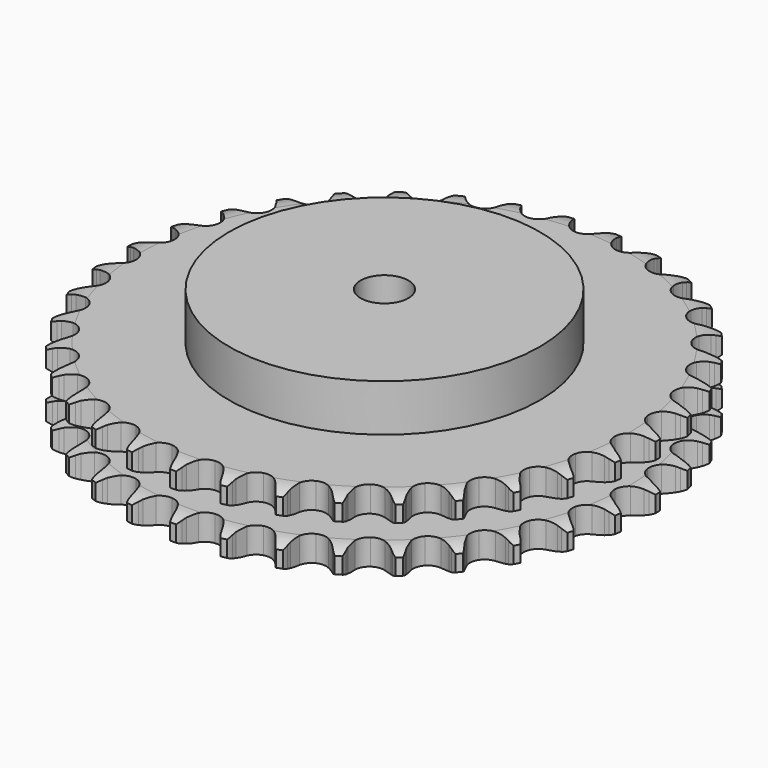
from build123d import *

# Parameters (mm, degrees)
PAD_DEPTH         = 30.3
SKETCH001_R       = 65
PAD001_DEPTH      = 50
SKETCH002_R       = 10
POCKET_DEPTH      = 0.001
POCKET_DEPTH_BACK = 50.001


with BuildPart() as part:
    # Sprocket → Pad (new body)
    with BuildSketch(Plane.XY):
        with BuildLine():
            ThreePointArc((-10.067115, 111.854811), (-8.635283, 110.142644), (-7.627397, 108.151206))
            Line((-7.627397, 108.151206), (-7.038579, 106.560645))
            ThreePointArc((-7.038579, 106.560645), (-6.107139, 104.508656), (-4.892548, 102.610495))
            ThreePointArc((-4.892548, 102.610495), (-2.736878, 100.803962), (0, 100.155911))
            ThreePointArc((0, 100.155911), (2.736878, 100.803962), (4.892548, 102.610495))
            ThreePointArc((4.892548, 102.610495), (6.107139, 104.508656), (7.038579, 106.560645))
            Line((7.038579, 106.560645), (7.627397, 108.151206))
            ThreePointArc((7.627397, 108.151206), (8.635283, 110.142644), (10.067115, 111.854811))
            ThreePointArc((10.067115, 111.854811), (11.170218, 109.914496), (11.806322, 107.775096))
            Line((11.806322, 107.775096), (12.101671, 106.104959))
            ThreePointArc((12.101671, 106.104959), (12.651747, 103.91963), (13.507889, 101.835101))
            ThreePointArc((13.507889, 101.835101), (15.306347, 99.67269), (17.883528, 98.546364))
            ThreePointArc((17.883528, 98.546364), (20.692138, 98.695313), (23.135734, 100.087904))
            Line((23.135734, 100.087904), (25.952604, 103.591385))
            ThreePointArc((25.952604, 103.591385), (26.364631, 104.332939), (26.815965, 105.051248))
            ThreePointArc((26.815965, 105.051248), (28.163239, 106.830717), (29.87778, 108.259706))
            ThreePointArc((29.87778, 108.259706), (30.616699, 106.153605), (30.860576, 103.935006))
            Line((30.860576, 103.935006), (30.852964, 102.238971))
            ThreePointArc((30.852964, 102.238971), (31.003994, 99.990542), (31.474171, 97.786642))
            ThreePointArc((31.474171, 97.786642), (32.857614, 95.337855), (35.192266, 93.769456))
            ThreePointArc((35.192266, 93.769456), (37.982335, 93.414515), (40.635319, 94.348406))
            Line((40.635319, 94.348406), (44.032491, 97.292612))
            ThreePointArc((44.032491, 97.292612), (44.570306, 97.948679), (45.142646, 98.574855))
            ThreePointArc((45.142646, 98.574855), (46.786005, 100.085163), (48.728149, 101.185044))
            ThreePointArc((48.728149, 101.185044), (49.079134, 98.98085), (48.922946, 96.754359))
            Line((48.922946, 96.754359), (48.612618, 95.08694))
            ThreePointArc((48.612618, 95.08694), (48.359748, 92.847676), (48.428847, 90.59524))
            ThreePointArc((48.428847, 90.59524), (49.35281, 87.938783), (51.369894, 85.978721))
            ThreePointArc((51.369894, 85.978721), (54.051749, 85.131297), (56.828851, 85.576472))
            Line((56.828851, 85.576472), (60.697138, 87.866775))
            ThreePointArc((60.697138, 87.866775), (61.343455, 88.416268), (62.018405, 88.930186))
            ThreePointArc((62.018405, 88.930186), (63.905031, 90.12279), (66.012355, 90.858212))
            ThreePointArc((66.012355, 90.858212), (65.964126, 88.62677), (65.412892, 86.463947))
            Line((65.412892, 86.463947), (64.809822, 84.878735))
            ThreePointArc((64.809822, 84.878735), (64.16118, 82.720609), (63.826981, 80.492033))
            ThreePointArc((63.826981, 80.492033), (64.261766, 77.713286), (65.896452, 75.424559))
            ThreePointArc((65.896452, 75.424559), (68.383895, 74.11189), (71.195857, 74.05404))
            Line((71.195857, 74.05404), (75.410928, 75.616827))
            ThreePointArc((75.410928, 75.616827), (76.144975, 76.042086), (76.900842, 76.427228))
            ThreePointArc((76.900842, 76.427228), (78.970096, 77.263795), (81.174869, 77.611122))
            ThreePointArc((81.174869, 77.611122), (80.728976, 75.424152), (79.800414, 73.394513))
            Line((79.800414, 73.394513), (78.923985, 71.942459))
            ThreePointArc((78.923985, 71.942459), (77.900418, 69.934834), (77.173662, 67.801745))
            ThreePointArc((77.173662, 67.801745), (77.105296, 64.99002), (78.305044, 62.446189))
            ThreePointArc((78.305044, 62.446189), (80.518127, 60.710465), (83.274569, 60.15145))
            Line((83.274569, 60.15145), (87.70095, 60.936493))
            ThreePointArc((87.70095, 60.936493), (88.499133, 61.223848), (89.311622, 61.467835))
            ThreePointArc((89.311622, 61.467835), (91.496998, 61.921479), (93.728357, 61.869547))
            ThreePointArc((93.728357, 61.869547), (92.89913, 59.797339), (91.623085, 57.966119))
            Line((91.623085, 57.966119), (90.501466, 56.693892))
            ThreePointArc((90.501466, 56.693892), (89.135873, 54.901296), (88.039919, 52.932254))
            ThreePointArc((88.039919, 52.932254), (87.470598, 50.177922), (88.196848, 47.460748))
            ThreePointArc((88.196848, 47.460748), (90.06444, 45.357756), (92.676769, 44.315543))
            Line((92.676769, 44.315543), (97.17219, 44.297609))
            ThreePointArc((97.17219, 44.297609), (98.008855, 44.437825), (98.851853, 44.532816))
            ThreePointArc((98.851853, 44.532816), (101.08311, 44.588956), (103.269337, 44.139433))
            ThreePointArc((103.269337, 44.139433), (102.08343, 42.248591), (100.500914, 40.674646))
            Line((100.500914, 40.674646), (99.170155, 39.623137))
            ThreePointArc((99.170155, 39.623137), (97.506428, 38.103185), (96.0765, 36.361476))
            ThreePointArc((96.0765, 36.361476), (95.024524, 33.753063), (95.253932, 30.949879))
            ThreePointArc((95.253932, 30.949879), (96.716007, 28.547212), (99.100261, 27.055298))
            Line((99.100261, 27.055298), (103.520237, 26.234963))
            ThreePointArc((103.520237, 26.234963), (104.368493, 26.223534), (105.214905, 26.166475))
            ThreePointArc((105.214905, 26.166475), (107.420329, 25.823307), (109.491157, 24.990642))
            ThreePointArc((109.491157, 24.990642), (107.986685, 23.341939), (106.148562, 22.075857))
            Line((106.148562, 22.075857), (104.651434, 21.278862))
            ThreePointArc((104.651434, 21.278862), (102.743046, 20.080406), (101.025103, 18.622011))
            ThreePointArc((101.025103, 18.622011), (99.524283, 16.243354), (99.249476, 13.444255))
            ThreePointArc((99.249476, 13.444255), (100.259043, 10.819136), (102.338589, 8.925473))
            Line((102.338589, 8.925473), (106.541057, 7.329105))
            ThreePointArc((106.541057, 7.329105), (107.373641, 7.166397), (108.196262, 6.959123))
            ThreePointArc((108.196262, 6.959123), (110.304969, 6.227675), (112.19384, 5.038631))
            ThreePointArc((112.19384, 5.038631), (110.419158, 3.685057), (108.384507, 2.767531))
            Line((108.384507, 2.767531), (106.76913, 2.250667))
            ThreePointArc((106.76913, 2.250667), (104.677418, 1.412226), (102.726677, 0.284019))
            ThreePointArc((102.726677, 0.284019), (100.825249, -1.78843), (100.055061, -4.493478))
            ThreePointArc((100.055061, -4.493478), (100.57967, -7.256675), (102.28767, -9.491224))
            Line((102.28767, -9.491224), (106.137561, -11.812317))
            ThreePointArc((106.137561, -11.812317), (106.927712, -12.121074), (107.700103, -12.471902))
            ThreePointArc((107.700103, -12.471902), (109.644317, -13.568119), (111.290522, -15.075325))
            ThreePointArc((111.290522, -15.075325), (109.302669, -16.090266), (107.136885, -16.629745))
            Line((107.136885, -16.629745), (105.455179, -16.849867))
            ThreePointArc((105.455179, -16.849867), (103.247372, -17.301344), (101.12653, -18.063102))
            ThreePointArc((101.12653, -18.063102), (98.885609, -19.762733), (97.644793, -22.286787))
            ThreePointArc((97.644793, -22.286787), (97.667584, -25.099251), (98.949142, -27.602865))
            Line((98.949142, -27.602865), (102.322716, -30.574082))
            ThreePointArc((102.322716, -30.574082), (103.045038, -31.018963), (103.742374, -31.502069))
            ThreePointArc((103.742374, -31.502069), (105.459607, -32.927823), (106.810234, -34.704749))
            ThreePointArc((106.810234, -34.704749), (104.673103, -35.348434), (102.445796, -35.492528))
            Line((102.445796, -35.492528), (100.751811, -35.408832))
            ThreePointArc((100.751811, -35.408832), (98.49887, -35.458834), (96.276094, -35.82966))
            ThreePointArc((96.276094, -35.82966), (93.767705, -37.101845), (92.096142, -39.36378))
            ThreePointArc((92.096142, -39.36378), (91.616381, -42.135116), (92.430307, -44.827327))
            Line((92.430307, -44.827327), (95.219135, -48.35317))
            ThreePointArc((95.219135, -48.35317), (95.850412, -48.919878), (96.45028, -49.519734))
            ThreePointArc((96.45028, -49.519734), (97.885338, -51.229199), (98.896977, -53.218733))
            ThreePointArc((98.896977, -53.218733), (96.679256, -53.470474), (94.462014, -53.214552))
            Line((94.462014, -53.214552), (92.810197, -52.829728))
            ThreePointArc((92.810197, -52.829728), (90.584533, -52.476648), (88.331265, -52.444623))
            ThreePointArc((88.331265, -52.444623), (85.636029, -53.248473), (83.587445, -55.175589))
            ThreePointArc((83.587445, -55.175589), (82.620553, -57.816724), (82.940685, -60.611002))
            Line((82.940685, -60.611002), (85.055132, -64.578148))
            ThreePointArc((85.055132, -64.578148), (85.575075, -65.248467), (86.058194, -65.945794))
            ThreePointArc((86.058194, -65.945794), (87.164954, -67.884026), (87.80509, -70.022223))
            ThreePointArc((87.80509, -70.022223), (85.578059, -69.873929), (83.442145, -69.226216))
            Line((83.442145, -69.226216), (81.885586, -68.552633))
            ThreePointArc((81.885586, -68.552633), (79.758735, -67.80782), (77.547396, -67.373972))
            ThreePointArc((77.547396, -67.373972), (74.751941, -67.683652), (72.392178, -69.214009))
            ThreePointArc((72.392178, -69.214009), (70.969232, -71.640055), (70.785282, -74.446589))
            Line((70.785282, -74.446589), (72.157388, -78.727531))
            ThreePointArc((72.157388, -78.727531), (72.549285, -79.479917), (72.900127, -80.252302))
            ThreePointArc((72.900127, -80.252302), (73.643016, -82.357006), (73.891076, -84.575141))
            ThreePointArc((73.891076, -84.575141), (71.726313, -84.031579), (69.740378, -83.012893))
            Line((69.740378, -83.012893), (68.329106, -82.0722))
            ThreePointArc((68.329106, -82.0722), (66.369425, -80.959592), (64.27109, -80.137867))
            ThreePointArc((64.27109, -80.137867), (61.465263, -79.943422), (58.870167, -81.027834))
            ThreePointArc((58.870167, -81.027834), (57.036902, -83.160815), (56.354782, -85.889402))
            Line((56.354782, -85.889402), (56.940445, -90.346546))
            ThreePointArc((56.940445, -90.346546), (57.191701, -91.156817), (57.398991, -91.979435))
            ThreePointArc((57.398991, -91.979435), (57.754131, -94.182963), (57.602141, -96.409745))
            ThreePointArc((57.602141, -96.409745), (55.569223, -95.488385), (53.797097, -94.131466))
            Line((53.797097, -94.131466), (52.576472, -92.953899))
            ThreePointArc((52.576472, -92.953899), (50.846948, -91.509257), (48.929059, -90.326065))
            ThreePointArc((48.929059, -90.326065), (46.203042, -89.633745), (43.456021, -90.237358))
            ThreePointArc((43.456021, -90.237358), (41.271358, -92.008719), (40.112992, -94.571659))
            Line((40.112992, -94.571659), (39.89339, -99.061749))
            ThreePointArc((39.89339, -99.061749), (39.995928, -99.903862), (40.053003, -100.750273))
            ThreePointArc((40.053003, -100.750273), (40.008981, -102.981802), (39.461826, -105.14566))
            ThreePointArc((39.461826, -105.14566), (37.626094, -103.876115), (36.124733, -102.224578))
            Line((36.124733, -102.224578), (35.133987, -100.847983))
            ThreePointArc((35.133987, -100.847983), (33.690208, -99.117739), (32.014407, -97.611109))
            ThreePointArc((32.014407, -97.611109), (29.455817, -96.443166), (26.645163, -96.546579))
            ThreePointArc((26.645163, -96.546579), (24.179319, -97.899386), (22.581938, -100.214305))
            Line((22.581938, -100.214305), (21.564129, -104.593026))
            ThreePointArc((21.564129, -104.593026), (21.514654, -105.439915), (21.419679, -106.282915))
            ThreePointArc((21.419679, -106.282915), (20.977909, -108.470722), (20.053176, -110.502107))
            ThreePointArc((20.053176, -110.502107), (18.47363, -108.925181), (17.29129, -107.032107))
            Line((17.29129, -107.032107), (16.562267, -105.50073))
            ThreePointArc((16.562267, -105.50073), (15.450637, -103.540495), (14.070786, -101.758851))
            ThreePointArc((14.070786, -101.758851), (11.761858, -100.152824), (8.977907, -99.752713))
            ThreePointArc((8.977907, -99.752713), (6.310137, -100.643487), (4.325082, -102.63598))
            Line((4.325082, -102.63598), (2.541778, -106.762597))
            ThreePointArc((2.541778, -106.762597), (2.341881, -107.587042), (2.097908, -108.399536))
            ThreePointArc((2.097908, -108.399536), (1.272591, -110.473303), (0, -112.306926))
            ThreePointArc((0, -112.306926), (-1.272591, -110.473303), (-2.097908, -108.399536))
            Line((-2.097908, -108.399536), (-2.541778, -106.762597))
            ThreePointArc((-2.541778, -106.762597), (-3.285531, -104.635374), (-4.325082, -102.63598))
            ThreePointArc((-4.325082, -102.63598), (-6.310137, -100.643487), (-8.977907, -99.752713))
            ThreePointArc((-8.977907, -99.752713), (-11.761858, -100.152824), (-14.070786, -101.758851))
            Line((-14.070786, -101.758851), (-16.562267, -105.50073))
            ThreePointArc((-16.562267, -105.50073), (-16.906162, -106.276233), (-17.29129, -107.032107))
            ThreePointArc((-17.29129, -107.032107), (-18.47363, -108.925181), (-20.053176, -110.502107))
            ThreePointArc((-20.053176, -110.502107), (-20.977909, -108.470722), (-21.419679, -106.282915))
            Line((-21.419679, -106.282915), (-21.564129, -104.593026))
            ThreePointArc((-21.564129, -104.593026), (-21.916098, -102.367186), (-22.581938, -100.214305))
            ThreePointArc((-22.581938, -100.214305), (-24.179319, -97.899386), (-26.645163, -96.546579))
            ThreePointArc((-26.645163, -96.546579), (-29.455817, -96.443166), (-32.014407, -97.611109))
            Line((-32.014407, -97.611109), (-35.133987, -100.847983))
            ThreePointArc((-35.133987, -100.847983), (-35.610827, -101.549618), (-36.124733, -102.224578))
            ThreePointArc((-36.124733, -102.224578), (-37.626094, -103.876115), (-39.461826, -105.14566))
            ThreePointArc((-39.461826, -105.14566), (-40.008981, -102.981802), (-40.053003, -100.750273))
            Line((-40.053003, -100.750273), (-39.89339, -99.061749))
            ThreePointArc((-39.89339, -99.061749), (-39.842264, -96.808833), (-40.112992, -94.571659))
            ThreePointArc((-40.112992, -94.571659), (-41.271358, -92.008719), (-43.456021, -90.237358))
            ThreePointArc((-43.456021, -90.237358), (-46.203042, -89.633745), (-48.929059, -90.326065))
            Line((-48.929059, -90.326065), (-52.576472, -92.953899))
            ThreePointArc((-52.576472, -92.953899), (-53.170931, -93.559115), (-53.797097, -94.131466))
            ThreePointArc((-53.797097, -94.131466), (-55.569223, -95.488385), (-57.602141, -96.409745))
            ThreePointArc((-57.602141, -96.409745), (-57.754131, -94.182963), (-57.398991, -91.979435))
            Line((-57.398991, -91.979435), (-56.940445, -90.346546))
            ThreePointArc((-56.940445, -90.346546), (-56.487868, -88.138964), (-56.354782, -85.889402))
            ThreePointArc((-56.354782, -85.889402), (-57.036902, -83.160815), (-58.870167, -81.027834))
            ThreePointArc((-58.870167, -81.027834), (-61.465263, -79.943422), (-64.27109, -80.137867))
            Line((-64.27109, -80.137867), (-68.329106, -82.0722))
            ThreePointArc((-68.329106, -82.0722), (-69.022078, -82.561545), (-69.740378, -83.012893))
            ThreePointArc((-69.740378, -83.012893), (-71.726313, -84.031579), (-73.891076, -84.575141))
            ThreePointArc((-73.891076, -84.575141), (-73.643016, -82.357006), (-72.900127, -80.252302))
            Line((-72.900127, -80.252302), (-72.157388, -78.727531))
            ThreePointArc((-72.157388, -78.727531), (-71.317904, -76.636237), (-70.785282, -74.446589))
            ThreePointArc((-70.785282, -74.446589), (-70.969232, -71.640055), (-72.392178, -69.214009))
            ThreePointArc((-72.392178, -69.214009), (-74.751941, -67.683652), (-77.547396, -67.373972))
            Line((-77.547396, -67.373972), (-81.885586, -68.552633))
            ThreePointArc((-81.885586, -68.552633), (-82.654798, -68.91038), (-83.442145, -69.226216))
            ThreePointArc((-83.442145, -69.226216), (-85.578059, -69.873929), (-87.80509, -70.022223))
            ThreePointArc((-87.80509, -70.022223), (-87.164954, -67.884026), (-86.058194, -65.945794))
            Line((-86.058194, -65.945794), (-85.055132, -64.578148))
            ThreePointArc((-85.055132, -64.578148), (-83.855724, -62.670357), (-82.940685, -60.611002))
            ThreePointArc((-82.940685, -60.611002), (-82.620553, -57.816724), (-83.587445, -55.175589))
            ThreePointArc((-83.587445, -55.175589), (-85.636029, -53.248473), (-88.331265, -52.444623))
            Line((-88.331265, -52.444623), (-92.810197, -52.829728))
            ThreePointArc((-92.810197, -52.829728), (-93.630924, -53.044377), (-94.462014, -53.214552))
            ThreePointArc((-94.462014, -53.214552), (-96.679256, -53.470474), (-98.896977, -53.218733))
            ThreePointArc((-98.896977, -53.218733), (-97.885338, -51.229199), (-96.45028, -49.519734))
            Line((-96.45028, -49.519734), (-95.219135, -48.35317))
            ThreePointArc((-95.219135, -48.35317), (-93.698353, -46.690201), (-92.430307, -44.827327))
            ThreePointArc((-92.430307, -44.827327), (-91.616381, -42.135116), (-92.096142, -39.36378))
            ThreePointArc((-92.096142, -39.36378), (-93.767705, -37.101845), (-96.276094, -35.82966))
            Line((-96.276094, -35.82966), (-100.751811, -35.408832))
            ThreePointArc((-100.751811, -35.408832), (-101.597676, -35.473485), (-102.445796, -35.492528))
            ThreePointArc((-102.445796, -35.492528), (-104.673103, -35.348434), (-106.810234, -34.704749))
            ThreePointArc((-106.810234, -34.704749), (-105.459607, -32.927823), (-103.742374, -31.502069))
            Line((-103.742374, -31.502069), (-102.322716, -30.574082))
            ThreePointArc((-102.322716, -30.574082), (-100.529439, -29.209384), (-98.949142, -27.602865))
            ThreePointArc((-98.949142, -27.602865), (-97.667584, -25.099251), (-97.644793, -22.286787))
            ThreePointArc((-97.644793, -22.286787), (-98.885609, -19.762733), (-101.12653, -18.063102))
            Line((-101.12653, -18.063102), (-105.455179, -16.849867))
            ThreePointArc((-105.455179, -16.849867), (-106.298995, -16.762446), (-107.136885, -16.629745))
            ThreePointArc((-107.136885, -16.629745), (-109.302669, -16.090266), (-111.290522, -15.075325))
            ThreePointArc((-111.290522, -15.075325), (-109.644317, -13.568119), (-107.700103, -12.471902))
            Line((-107.700103, -12.471902), (-106.137561, -11.812317))
            ThreePointArc((-106.137561, -11.812317), (-104.129427, -10.789752), (-102.28767, -9.491224))
            ThreePointArc((-102.28767, -9.491224), (-100.57967, -7.256675), (-100.055061, -4.493478))
            ThreePointArc((-100.055061, -4.493478), (-100.825249, -1.78843), (-102.726677, 0.284019))
            Line((-102.726677, 0.284019), (-106.76913, 2.250667))
            ThreePointArc((-106.76913, 2.250667), (-107.583777, 2.487352), (-108.384507, 2.767531))
            ThreePointArc((-108.384507, 2.767531), (-110.419158, 3.685057), (-112.19384, 5.038631))
            ThreePointArc((-112.19384, 5.038631), (-110.304969, 6.227675), (-108.196262, 6.959123))
            Line((-108.196262, 6.959123), (-106.541057, 7.329105))
            ThreePointArc((-106.541057, 7.329105), (-104.382608, 7.976671), (-102.338589, 8.925473))
            ThreePointArc((-102.338589, 8.925473), (-100.259043, 10.819136), (-99.249476, 13.444255))
            ThreePointArc((-99.249476, 13.444255), (-99.524283, 16.243354), (-101.025103, 18.622011))
            Line((-101.025103, 18.622011), (-104.651434, 21.278862))
            ThreePointArc((-104.651434, 21.278862), (-105.410728, 21.657204), (-106.148562, 22.075857))
            ThreePointArc((-106.148562, 22.075857), (-107.986685, 23.341939), (-109.491157, 24.990642))
            ThreePointArc((-109.491157, 24.990642), (-107.420329, 25.823307), (-105.214905, 26.166475))
            Line((-105.214905, 26.166475), (-103.520237, 26.234963))
            ThreePointArc((-103.520237, 26.234963), (-101.280848, 26.486717), (-99.100261, 27.055298))
            ThreePointArc((-99.100261, 27.055298), (-96.716007, 28.547212), (-95.253932, 30.949879))
            ThreePointArc((-95.253932, 30.949879), (-95.024524, 33.753063), (-96.0765, 36.361476))
            Line((-96.0765, 36.361476), (-99.170155, 39.623137))
            ThreePointArc((-99.170155, 39.623137), (-99.849691, 40.130976), (-100.500914, 40.674646))
            ThreePointArc((-100.500914, 40.674646), (-102.08343, 42.248591), (-103.269337, 44.139433))
            ThreePointArc((-103.269337, 44.139433), (-101.08311, 44.588956), (-98.851853, 44.532816))
            Line((-98.851853, 44.532816), (-97.17219, 44.297609))
            ThreePointArc((-97.17219, 44.297609), (-94.923837, 44.145458), (-92.676769, 44.315543))
            ThreePointArc((-92.676769, 44.315543), (-90.06444, 45.357756), (-88.196848, 47.460748))
            ThreePointArc((-88.196848, 47.460748), (-87.470598, 50.177922), (-88.039919, 52.932254))
            Line((-88.039919, 52.932254), (-90.501466, 56.693892))
            ThreePointArc((-90.501466, 56.693892), (-91.079403, 57.314906), (-91.623085, 57.966119))
            ThreePointArc((-91.623085, 57.966119), (-92.89913, 59.797339), (-93.728357, 61.869547))
            ThreePointArc((-93.728357, 61.869547), (-91.496998, 61.921479), (-89.311622, 61.467835))
            Line((-89.311622, 61.467835), (-87.70095, 60.936493))
            ThreePointArc((-87.70095, 60.936493), (-85.515896, 60.385328), (-83.274569, 60.15145))
            ThreePointArc((-83.274569, 60.15145), (-80.518127, 60.710465), (-78.305044, 62.446189))
            ThreePointArc((-78.305044, 62.446189), (-77.105296, 64.99002), (-77.173662, 67.801745))
            Line((-77.173662, 67.801745), (-78.923985, 71.942459))
            ThreePointArc((-78.923985, 71.942459), (-79.381748, 72.656687), (-79.800414, 73.394513))
            ThreePointArc((-79.800414, 73.394513), (-80.728976, 75.424152), (-81.174869, 77.611122))
            ThreePointArc((-81.174869, 77.611122), (-78.970096, 77.263795), (-76.900842, 76.427228))
            Line((-76.900842, 76.427228), (-75.410928, 75.616827))
            ThreePointArc((-75.410928, 75.616827), (-73.359404, 74.684363), (-71.195857, 74.05404))
            ThreePointArc((-71.195857, 74.05404), (-68.383895, 74.11189), (-65.896452, 75.424559))
            ThreePointArc((-65.896452, 75.424559), (-64.261766, 77.713286), (-63.826981, 80.492033))
            Line((-63.826981, 80.492033), (-64.809822, 84.878735))
            ThreePointArc((-64.809822, 84.878735), (-65.132698, 85.663222), (-65.412892, 86.463947))
            ThreePointArc((-65.412892, 86.463947), (-65.964126, 88.62677), (-66.012355, 90.858212))
            ThreePointArc((-66.012355, 90.858212), (-63.905031, 90.12279), (-62.018405, 88.930186))
            Line((-62.018405, 88.930186), (-60.697138, 87.866775))
            ThreePointArc((-60.697138, 87.866775), (-58.84508, 86.582982), (-56.828851, 85.576472))
            ThreePointArc((-56.828851, 85.576472), (-54.051749, 85.131297), (-51.369894, 85.978721))
            ThreePointArc((-51.369894, 85.978721), (-49.35281, 87.938783), (-48.428847, 90.59524))
            Line((-48.428847, 90.59524), (-48.612618, 95.08694))
            ThreePointArc((-48.612618, 95.08694), (-48.79023, 95.916471), (-48.922946, 96.754359))
            ThreePointArc((-48.922946, 96.754359), (-49.079134, 98.98085), (-48.728149, 101.185044))
            ThreePointArc((-48.728149, 101.185044), (-46.786005, 100.085163), (-45.142646, 98.574855))
            Line((-45.142646, 98.574855), (-44.032491, 97.292612))
            ThreePointArc((-44.032491, 97.292612), (-42.439427, 95.698753), (-40.635319, 94.348406))
            ThreePointArc((-40.635319, 94.348406), (-37.982335, 93.414515), (-35.192266, 93.769456))
            ThreePointArc((-35.192266, 93.769456), (-32.857614, 95.337855), (-31.474171, 97.786642))
            Line((-31.474171, 97.786642), (-30.852964, 102.238971))
            ThreePointArc((-30.852964, 102.238971), (-30.879603, 103.086886), (-30.860576, 103.935006))
            ThreePointArc((-30.860576, 103.935006), (-30.616699, 106.153605), (-29.87778, 108.259706))
            ThreePointArc((-29.87778, 108.259706), (-28.163239, 106.830717), (-26.815965, 105.051248))
            Line((-26.815965, 105.051248), (-25.952604, 103.591385))
            ThreePointArc((-25.952604, 103.591385), (-24.669735, 101.738687), (-23.135734, 100.087904))
            ThreePointArc((-23.135734, 100.087904), (-20.692138, 98.695313), (-17.883528, 98.546364))
            ThreePointArc((-17.883528, 98.546364), (-15.306347, 99.67269), (-13.507889, 101.835101))
            Line((-13.507889, 101.835101), (-12.101671, 106.104959))
            ThreePointArc((-12.101671, 106.104959), (-11.976481, 106.944004), (-11.806322, 107.775096))
            ThreePointArc((-11.806322, 107.775096), (-11.170218, 109.914496), (-10.067115, 111.854811))
        make_face()
    extrude(amount=PAD_DEPTH)

    # Sketch → Groove (revolve, cut)
    with BuildSketch(Plane.XZ):
        with BuildLine():
            ThreePointArc((102.014719, 0), (106.373618, 0.506758), (110.5, 2))
            Line((110.5, 2), (110.5, 8.8))
            ThreePointArc((110.5, 8.8), (106.373618, 10.293242), (102.014719, 10.8))
            Line((65, 10.8), (102.014719, 10.8))
            Line((65, 19.5), (65, 10.8))
            Line((102.014719, 19.5), (65, 19.5))
            ThreePointArc((102.014719, 19.5), (106.373618, 20.006758), (110.5, 21.5))
            Line((110.5, 21.5), (110.5, 28.3))
            ThreePointArc((110.5, 28.3), (106.373618, 29.793242), (102.014719, 30.3))
            Line((102.014719, 30.3), (120.5, 30.3))
            Line((120.5, 30.3), (120.5, 0))
            Line((102.014719, 0), (120.5, 0))
        make_face()
    revolve(axis=Axis((0, 0, 0), (0, 0, 1)), mode=Mode.SUBTRACT)

    # Sketch001 → Pad001 (join)
    with BuildSketch(Plane.XY):
        Circle(SKETCH001_R)
    extrude(amount=PAD001_DEPTH)

    # Sketch002 → Pocket (cut, two sides)
    with BuildSketch(Plane.XY) as pocket_sk:
        Circle(SKETCH002_R)
    extrude(amount=-POCKET_DEPTH, mode=Mode.SUBTRACT)
    extrude(pocket_sk.sketch, amount=POCKET_DEPTH_BACK, mode=Mode.SUBTRACT)


solid = part.part
